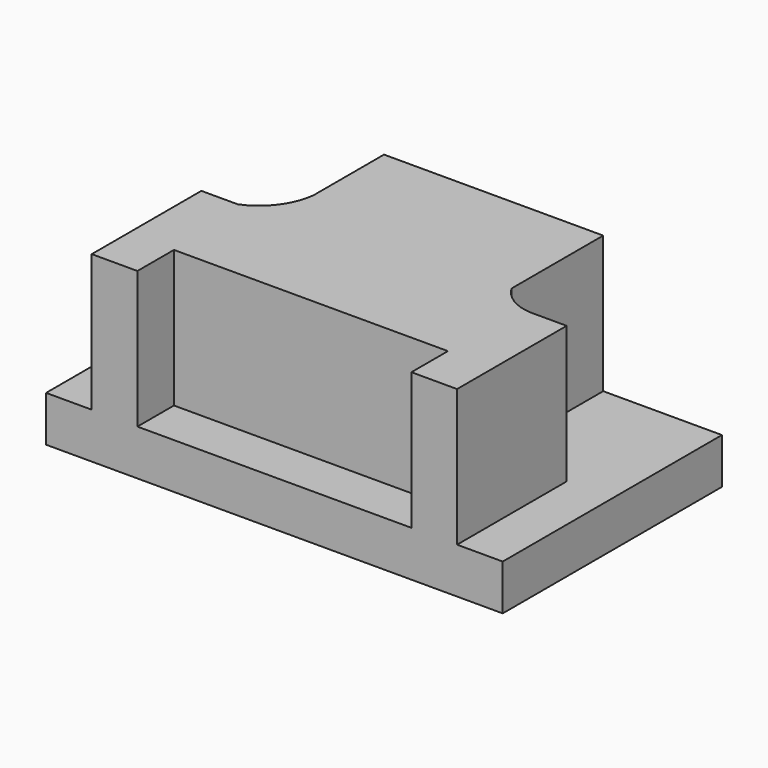
from build123d import *

# Parameters (mm, degrees)
F0_W      = 63.5
F0_H      = 38.1
F1_DEPTH  = 6.35
F2_W      = 50.8
F2_H      = 38.1
F3_DEPTH  = 19.05
F4_W      = 38.1
F4_H      = 6.35
F5_DEPTH  = 19.05
F6_W      = 10.16
F6_H      = 19.05
F7_DEPTH  = 19.05
F8_DEPTH  = 19.05
F10_DEPTH = 19.05
F12_DEPTH = 19.05


with BuildPart() as f1:
    # F0 (on Top) → F1 (new body)
    with BuildSketch(Plane.XY):
        Rectangle(F0_W, F0_H)
    extrude(amount=F1_DEPTH)

    # F2 (on face) → F3 (join)
    with BuildSketch(Plane.XY.offset(6.35)):
        Rectangle(F2_W, F2_H)
    extrude(amount=F3_DEPTH)

    # F4 (on face) → F5 (cut)
    with BuildSketch(Plane.XY.offset(25.4)):
        with Locations((0, -15.875)):
            Rectangle(F4_W, F4_H)
    extrude(amount=-F5_DEPTH, mode=Mode.SUBTRACT)

    # F6 (on face) → F7 (cut)
    with BuildSketch(Plane.XY.offset(25.4)):
        with Locations((-20.32, 9.525)):
            Rectangle(F6_W, F6_H)
    extrude(amount=-F7_DEPTH, mode=Mode.SUBTRACT)

    # F6 (on face) → F8 (cut)
    with BuildSketch(Plane.XY.offset(25.4)):
        with Locations((20.32, 9.525)):
            Rectangle(F6_W, F6_H)
    extrude(amount=-F8_DEPTH, mode=Mode.SUBTRACT)

    # F9 (on face) → F10 (join)
    with BuildSketch(Plane.XY.offset(6.35)):
        with BuildLine():
            ThreePointArc((-15.24, 6.8340138532), (-16.8394418456, 2.717851858), (-20.32, 0))
            Line((-20.32, 0), (-15.24, 0))
            Line((-15.24, 0), (-15.24, 6.8340138532))
        make_face()
    extrude(amount=F10_DEPTH)

    # F11 (on face) → F12 (join)
    with BuildSketch(Plane.XY.offset(6.35)):
        with BuildLine():
            ThreePointArc((20.32, 0), (17.3902858448, 0.9238566208), (15.24, 3.1177132417))
            Line((15.24, 3.1177132417), (15.24, 0))
            Line((15.24, 0), (20.32, 0))
        make_face()
    extrude(amount=F12_DEPTH)


solid = f1.part
